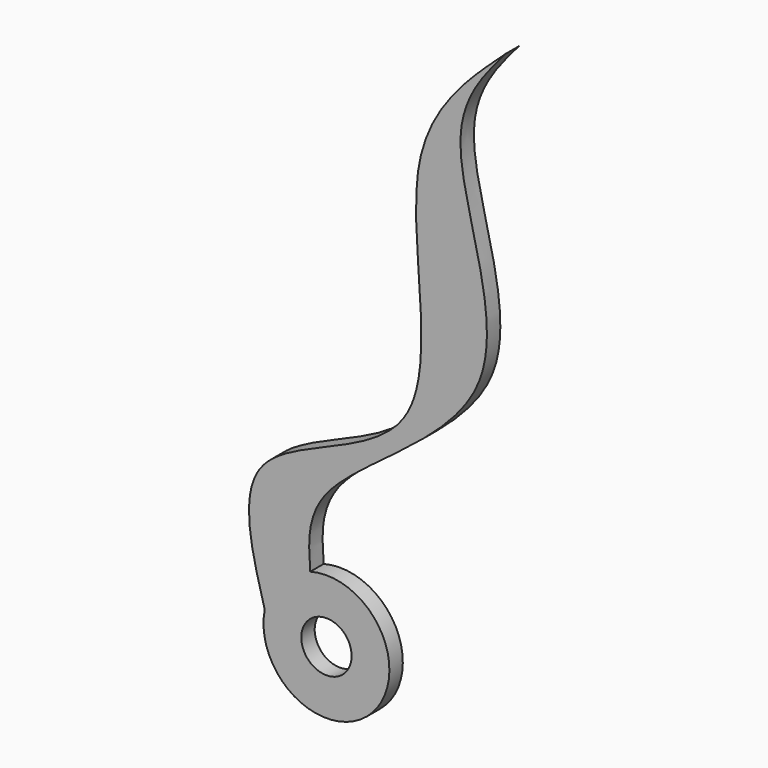
from build123d import *

# Parameters (mm, degrees)
F0_R     = 3
F1_DEPTH = 2


with BuildPart() as f1:
    # F0 (on Front) → F1 (new body)
    with BuildSketch(Plane.XZ):
        with BuildLine():
            add(Edge.make_bspline(
                [(-7.3522864358, 1.4811766154), (-8.9471361632, 7.2983312126), (-12.4144073579, 19.753197622), (16.7670943218, 22.8389948987), (6.4658064346, 55.5755168784), (16.6987089143, 64.8993482025), (21.3461536914, 69.1346153617)],
                knots=[0, 0, 0, 0, 0.2185236943, 0.4676233025, 0.7581543639, 1, 1, 1, 1], degree=3))
            ThreePointArc((-7.3522864358, 1.4811766154), (5.464105474, -5.1374654615), (-1.9309931552, 7.2471556789))
            add(Edge.make_bspline(
                [(-1.9309931552, 7.2471556789), (-2.1530287899, 10.166387882), (-2.7485374534, 17.9999295301), (26.4410605211, 31.246410226), (12.2244066057, 58.5396449003), (18.6725142035, 66.0291706458), (21.3461536914, 69.1346153617)],
                knots=[0, 0, 0, 0, 0.1821510276, 0.4888190939, 0.7880458859, 1, 1, 1, 1], degree=3))
        make_face()
        Circle(F0_R, mode=Mode.SUBTRACT)
    extrude(amount=F1_DEPTH)


solid = f1.part
